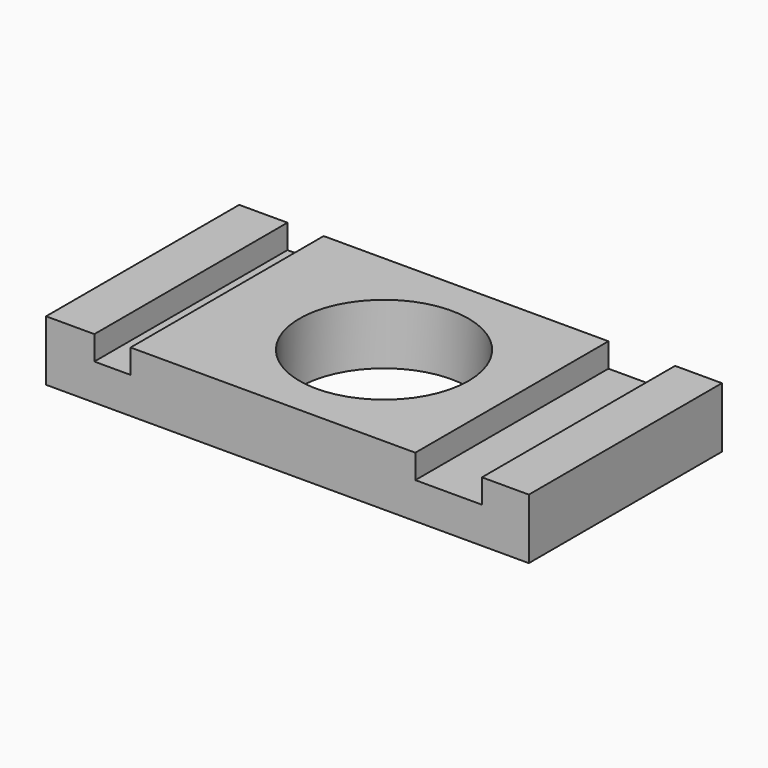
from build123d import *

# Parameters (mm, degrees)
F0_W     = 200
F0_H     = 100
F0_R     = 35
F1_DEPTH = 25
F2_W     = 15
F2_H     = 100
F3_DEPTH = 10
F4_W     = 27.6011
F4_H     = 100
F5_DEPTH = 10


with BuildPart() as f1:
    # F0 (on Top) → F1 (new body)
    with BuildSketch(Plane.XY):
        Rectangle(F0_W, F0_H)
        Circle(F0_R, mode=Mode.SUBTRACT)
    extrude(amount=F1_DEPTH)

    # F2 (on face) → F3 (cut)
    with BuildSketch(Plane.XY.offset(25)):
        with Locations((-72.5, 0)):
            Rectangle(F2_W, F2_H)
    extrude(amount=-F3_DEPTH, mode=Mode.SUBTRACT)

    # F4 (on face) → F5 (cut)
    with BuildSketch(Plane.XY.offset(25)):
        with Locations((66.783089, 0)):
            Rectangle(F4_W, F4_H)
    extrude(amount=-F5_DEPTH, mode=Mode.SUBTRACT)


solid = f1.part
